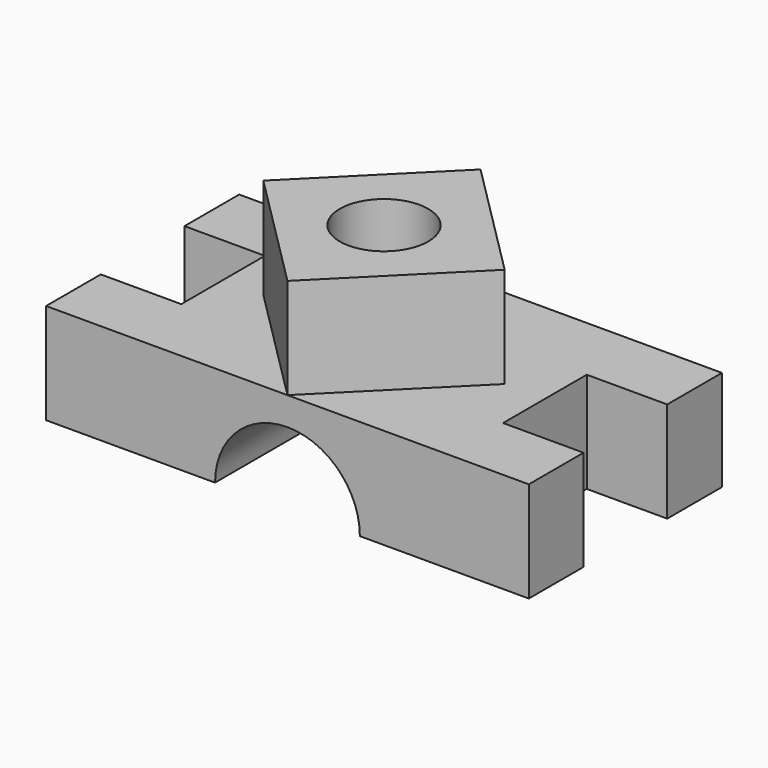
from build123d import *

# Parameters (mm, degrees)
F1_DEPTH = 25
F3_DEPTH = 25
F4_R     = 18
F5_DEPTH = 60.001
F6_R     = 11
F7_DEPTH = 50.001


with BuildPart() as f1:
    # F0 (on Top) → F1 (new body)
    with BuildSketch(Plane.XY):
        Polygon((-91.144378, -17.844866), (28.855622, -17.844866), (28.855622, -0.844866), (8.855622, -0.844866), (8.855622, 25.155134), (28.855622, 25.155134), (28.855622, 42.155134), (-91.144378, 42.155134), (-91.144378, 25.155134), (-71.144378, 25.155134), (-71.144378, -0.844866), (-91.144378, -0.844866), align=None)
    extrude(amount=F1_DEPTH)

    # F2 (on face) → F3 (join)
    with BuildSketch(Plane.XY.offset(25)):
        Polygon((-1.144378, 12.155134), (-31.144378, 42.155134), (-61.144378, 12.155134), (-31.144378, -17.844866), align=None)
    extrude(amount=F3_DEPTH)

    # F4 (on face) → F5 (cut, through all)
    with BuildSketch(Plane.XZ.offset(17.844866)):
        with Locations((-31.144378, 0)):
            Circle(F4_R)
    extrude(amount=-F5_DEPTH, mode=Mode.SUBTRACT)

    # F6 (on face) → F7 (cut, through all)
    with BuildSketch(Plane.XY.offset(50)):
        with Locations((-31.144378, 12.155134)):
            Circle(F6_R)
    extrude(amount=-F7_DEPTH, mode=Mode.SUBTRACT)


solid = f1.part
